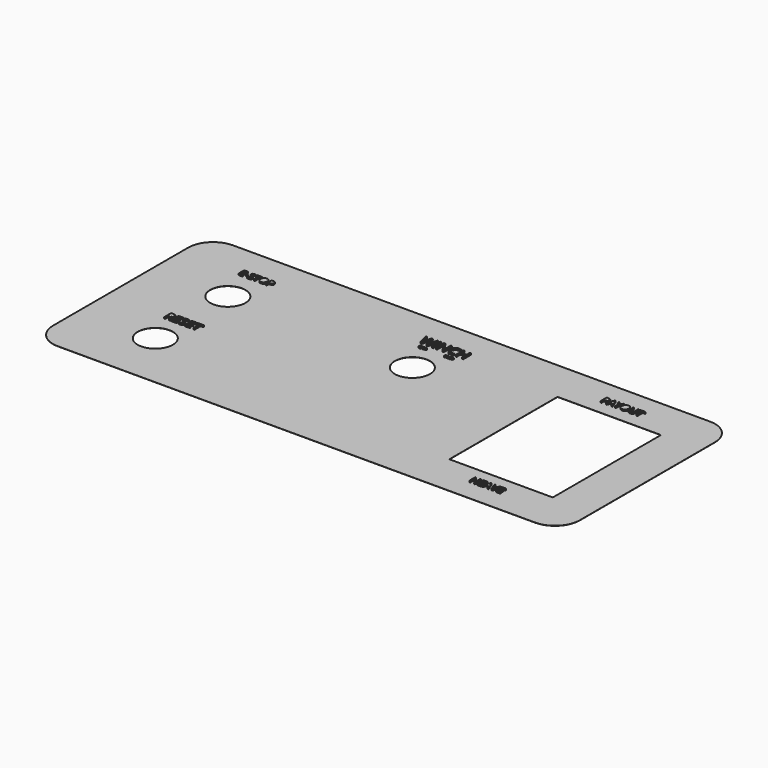
from build123d import *

# Parameters (mm, degrees)
F0_W     = 336.55
F0_H     = 139.7
F0_R     = 11.25
F0_W_2   = 66.04
F0_H_2   = 86.36
F1_DEPTH = 1
F2_R     = 15.88
F3_R     = 11.25
F3_W     = 1.5159601074
F3_H     = 0.4694139837
F3_W_2   = 0.7467557734
F3_H_2   = 6.4254748189
F3_W_3   = 66.04
F3_H_3   = 86.36
F4_DEPTH = 0.9


with BuildPart() as f1:
    # F0 (on Top) → F1 (new body)
    with BuildSketch(Plane.XY):
        Rectangle(F0_W, F0_H)
        with Locations((-119.885, -32.77)):
            Circle(F0_R, mode=Mode.SUBTRACT)
        with Locations((-119.885, 25.15)):
            Circle(F0_R, mode=Mode.SUBTRACT)
        with Locations((0, 22.65)):
            Circle(F0_R, mode=Mode.SUBTRACT)
        with Locations((109.345, 0)):
            Rectangle(F0_W_2, F0_H_2, mode=Mode.SUBTRACT)
    extrude(amount=F1_DEPTH)

    # F2
    f2_edges = [f1.edges().sort_by_distance(p)[0] for p in [
        (-168.275, 69.85, 0.5),
        (-168.275, -69.85, 0.5),
        (168.275, 69.85, 0.5),
        (168.275, -69.85, 0.5),
    ]]
    fillet(f2_edges, radius=F2_R)

    # F3 (on face) → F4 (cut)
    with BuildSketch(Plane.XY.offset(1)):
        with BuildLine():
            ThreePointArc((-168.275, -53.97), (-163.6238556852, -65.1988556852), (-152.395, -69.85))
            Line((-152.395, -69.85), (152.395, -69.85))
            ThreePointArc((152.395, -69.85), (163.6238556852, -65.1988556852), (168.275, -53.97))
            Line((168.275, -53.97), (168.275, 53.97))
            ThreePointArc((168.275, 53.97), (163.6238556852, 65.1988556852), (152.395, 69.85))
            Line((152.395, 69.85), (-152.395, 69.85))
            ThreePointArc((-152.395, 69.85), (-163.6238556852, 65.1988556852), (-168.275, 53.97))
            Line((-168.275, 53.97), (-168.275, -53.97))
        make_face()
        with Locations((-119.885, -32.77)):
            Circle(F3_R, mode=Mode.SUBTRACT)
        with BuildLine():
            Line((-127.8560593582, -11.1625907521), (-129.0059681687, -11.1625907521))
            Line((-129.0059681687, -11.1625907521), (-129.0059681687, -13.4527655318))
            Line((-129.0059681687, -13.4527655318), (-129.6460117519, -13.4527655318))
            Line((-129.6460117519, -13.4527655318), (-129.6460117519, -7.9454978641))
            Line((-129.6460117519, -7.9454978641), (-128.1357017524, -7.9454978641))
            add(Edge.make_bspline(
                [(-128.1357017524, -7.9454978641), (-127.1219980736, -7.9454978641), (-126.6380479819, -8.3336222215)],
                knots=[0, 0, 0, 1, 1, 1], degree=2))
            add(Edge.make_bspline(
                [(-126.6380479819, -8.3336222215), (-126.1540978903, -8.7217465789), (-126.1540978903, -9.5016113592)],
                knots=[0, 0, 0, 1, 1, 1], degree=2))
            add(Edge.make_bspline(
                [(-126.1540978903, -9.5016113592), (-126.1540978903, -10.5936631226), (-127.2618192706, -10.9781714145)],
                knots=[0, 0, 0, 1, 1, 1], degree=2))
            Line((-127.2618192706, -10.9781714145), (-125.7659735329, -13.4527655318))
            Line((-125.7659735329, -13.4527655318), (-126.5229365654, -13.4527655318))
            Line((-126.5229365654, -13.4527655318), (-127.8560593582, -11.1625907521))
        make_face(mode=Mode.SUBTRACT)
        Polygon((-121.8075872293, -12.8802218369), (-121.8075872293, -13.4527655318), (-124.8776267894, -13.4527655318), (-124.8776267894, -7.9454978641), (-121.8075872293, -7.9454978641), (-121.8075872293, -8.5144254936), (-124.2375832062, -8.5144254936), (-124.2375832062, -10.2887082703), (-121.9546405573, -10.2887082703), (-121.9546405573, -10.8540198344), (-124.2375832062, -10.8540198344), (-124.2375832062, -12.8802218369), align=None, mode=Mode.SUBTRACT)
        with BuildLine():
            add(Edge.make_bspline(
                [(-117.8058081405, -11.0685730506), (-117.4803622507, -11.4229474639), (-117.4803622507, -11.9870536728)],
                knots=[0, 0, 0, 1, 1, 1], degree=2))
            add(Edge.make_bspline(
                [(-117.4803622507, -11.9870536728), (-117.4803622507, -12.7138828266), (-118.0077051276, -13.1212928663)],
                knots=[0, 0, 0, 1, 1, 1], degree=2))
            add(Edge.make_bspline(
                [(-118.0077051276, -13.1212928663), (-118.5350480046, -13.5287029061), (-119.439064365, -13.5287029061)],
                knots=[0, 0, 0, 1, 1, 1], degree=2))
            add(Edge.make_bspline(
                [(-119.439064365, -13.5287029061), (-120.4178127446, -13.5287029061), (-120.9457582991, -13.2755783252)],
                knots=[0, 0, 0, 1, 1, 1], degree=2))
            Line((-120.9457582991, -13.2755783252), (-120.9457582991, -12.6584364898))
            add(Edge.make_bspline(
                [(-120.9457582991, -12.6584364898), (-120.6058481475, -12.8006683972), (-120.2068755938, -12.8838379023)],
                knots=[0, 0, 0, 1, 1, 1], degree=2))
            add(Edge.make_bspline(
                [(-120.2068755938, -12.8838379023), (-119.8079030401, -12.9670074075), (-119.4161626172, -12.9670074075)],
                knots=[0, 0, 0, 1, 1, 1], degree=2))
            add(Edge.make_bspline(
                [(-119.4161626172, -12.9670074075), (-118.776119034, -12.9670074075), (-118.4518784994, -12.7241283453)],
                knots=[0, 0, 0, 1, 1, 1], degree=2))
            add(Edge.make_bspline(
                [(-118.4518784994, -12.7241283453), (-118.1276379648, -12.4812492832), (-118.1276379648, -12.0473214301)],
                knots=[0, 0, 0, 1, 1, 1], degree=2))
            add(Edge.make_bspline(
                [(-118.1276379648, -12.0473214301), (-118.1276379648, -11.7616522602), (-118.2427493814, -11.5790409554)],
                knots=[0, 0, 0, 1, 1, 1], degree=2))
            add(Edge.make_bspline(
                [(-118.2427493814, -11.5790409554), (-118.3578607979, -11.3964296506), (-118.6272576733, -11.2415415142)],
                knots=[0, 0, 0, 1, 1, 1], degree=2))
            add(Edge.make_bspline(
                [(-118.6272576733, -11.2415415142), (-118.8966545487, -11.0866533778), (-119.4462964959, -10.8913858439)],
                knots=[0, 0, 0, 1, 1, 1], degree=2))
            add(Edge.make_bspline(
                [(-119.4462964959, -10.8913858439), (-120.2141077247, -10.6165648704), (-120.5437723575, -10.2398913868)],
                knots=[0, 0, 0, 1, 1, 1], degree=2))
            add(Edge.make_bspline(
                [(-120.5437723575, -10.2398913868), (-120.8734369902, -9.8632179033), (-120.8734369902, -9.2569242643)],
                knots=[0, 0, 0, 1, 1, 1], degree=2))
            add(Edge.make_bspline(
                [(-120.8734369902, -9.2569242643), (-120.8734369902, -8.6204967465), (-120.3955136743, -8.243823263)],
                knots=[0, 0, 0, 1, 1, 1], degree=2))
            add(Edge.make_bspline(
                [(-120.3955136743, -8.243823263), (-119.9175903585, -7.8671497795), (-119.1292880922, -7.8671497795)],
                knots=[0, 0, 0, 1, 1, 1], degree=2))
            add(Edge.make_bspline(
                [(-119.1292880922, -7.8671497795), (-118.3084412369, -7.8671497795), (-117.6189780927, -8.1684885663)],
                knots=[0, 0, 0, 1, 1, 1], degree=2))
            Line((-117.6189780927, -8.1684885663), (-117.8190670471, -8.7253626443))
            add(Edge.make_bspline(
                [(-117.8190670471, -8.7253626443), (-118.5012980604, -8.4396934744), (-119.1449577091, -8.4396934744)],
                knots=[0, 0, 0, 1, 1, 1], degree=2))
            add(Edge.make_bspline(
                [(-119.1449577091, -8.4396934744), (-119.6536175812, -8.4396934744), (-119.9398894287, -8.6578627561)],
                knots=[0, 0, 0, 1, 1, 1], degree=2))
            add(Edge.make_bspline(
                [(-119.9398894287, -8.6578627561), (-120.2261612762, -8.8760320377), (-120.2261612762, -9.2641563951)],
                knots=[0, 0, 0, 1, 1, 1], degree=2))
            add(Edge.make_bspline(
                [(-120.2261612762, -9.2641563951), (-120.2261612762, -9.549825565), (-120.1206927008, -9.7330395474)],
                knots=[0, 0, 0, 1, 1, 1], degree=2))
            add(Edge.make_bspline(
                [(-120.1206927008, -9.7330395474), (-120.0152241254, -9.9162535298), (-119.7645102548, -10.0687309559)],
                knots=[0, 0, 0, 1, 1, 1], degree=2))
            add(Edge.make_bspline(
                [(-119.7645102548, -10.0687309559), (-119.5137963841, -10.2212083821), (-118.9979043811, -10.4056277196)],
                knots=[0, 0, 0, 1, 1, 1], degree=2))
            add(Edge.make_bspline(
                [(-118.9979043811, -10.4056277196), (-118.1312540302, -10.7141986373), (-117.8058081405, -11.0685730506)],
                knots=[0, 0, 0, 1, 1, 1], degree=2))
        make_face(mode=Mode.SUBTRACT)
        Polygon((-113.283315628, -12.8802218369), (-113.283315628, -13.4527655318), (-116.353355188, -13.4527655318), (-116.353355188, -7.9454978641), (-113.283315628, -7.9454978641), (-113.283315628, -8.5144254936), (-115.7133116048, -8.5144254936), (-115.7133116048, -10.2887082703), (-113.430368956, -10.2887082703), (-113.430368956, -10.8540198344), (-115.7133116048, -10.8540198344), (-115.7133116048, -12.8802218369), align=None, mode=Mode.SUBTRACT)
        Polygon((-110.3687668819, -8.5144254936), (-110.3687668819, -13.4527655318), (-111.0088104651, -13.4527655318), (-111.0088104651, -8.5144254936), (-112.7529593632, -8.5144254936), (-112.7529593632, -7.9454978641), (-108.6246179839, -7.9454978641), (-108.6246179839, -8.5144254936), align=None, mode=Mode.SUBTRACT)
        Polygon((103.2615733004, -51.5825878295), (103.2615733004, -56.4014464617), (102.7015352322, -56.4014464617), (102.7015352322, -54.1338723625), (100.1629069268, -54.1338723625), (100.1629069268, -56.4014464617), (99.6028688586, -56.4014464617), (99.6028688586, -51.5825878295), (100.1629069268, -51.5825878295), (100.1629069268, -53.6328966894), (102.7015352322, -53.6328966894), (102.7015352322, -51.5825878295), align=None, mode=Mode.SUBTRACT)
        Polygon((107.269378685, -55.9004707886), (107.269378685, -56.4014464617), (104.5830943917, -56.4014464617), (104.5830943917, -51.5825878295), (107.269378685, -51.5825878295), (107.269378685, -52.0803994457), (105.1431324599, -52.0803994457), (105.1431324599, -53.6328966894), (107.1407070385, -53.6328966894), (107.1407070385, -54.1275442487), (105.1431324599, -54.1275442487), (105.1431324599, -55.9004707886), align=None, mode=Mode.SUBTRACT)
        Polygon((111.9458547575, -56.4014464617), (111.3657776623, -56.4014464617), (110.7656615403, -54.8689882449), (108.8345321563, -54.8689882449), (108.2417988336, -56.4014464617), (107.674377966, -56.4014464617), (109.5791402093, -51.5625488026), (110.0505846848, -51.5625488026), align=None, mode=Mode.SUBTRACT)
        with BuildLine():
            Line((114.2598350243, -54.6812542032), (115.3609268194, -51.5825878295))
            Line((115.3609268194, -51.5825878295), (115.9631523127, -51.5825878295))
            Line((115.9631523127, -51.5825878295), (114.2271397698, -56.4014464617))
            Line((114.2271397698, -56.4014464617), (113.6734298154, -56.4014464617))
            Line((113.6734298154, -56.4014464617), (111.9458547575, -51.5825878295))
            Line((111.9458547575, -51.5825878295), (112.5396427658, -51.5825878295))
            Line((112.5396427658, -51.5825878295), (113.6470626747, -54.7002385445))
            add(Edge.make_bspline(
                [(113.6470626747, -54.7002385445), (113.8379607733, -55.2381282145), (113.9497574498, -55.7454320014)],
                knots=[0, 0, 0, 1, 1, 1], degree=2))
            add(Edge.make_bspline(
                [(113.9497574498, -55.7454320014), (114.0689369257, -55.2117610738), (114.2598350243, -54.6812542032)],
                knots=[0, 0, 0, 1, 1, 1], degree=2))
        make_face(mode=Mode.SUBTRACT)
        Polygon((119.3117791801, -55.9004707886), (119.3117791801, -56.4014464617), (116.6254948868, -56.4014464617), (116.6254948868, -51.5825878295), (119.3117791801, -51.5825878295), (119.3117791801, -52.0803994457), (117.185532955, -52.0803994457), (117.185532955, -53.6328966894), (119.1831075335, -53.6328966894), (119.1831075335, -54.1275442487), (117.185532955, -54.1275442487), (117.185532955, -55.9004707886), align=None, mode=Mode.SUBTRACT)
        with Locations((-119.885, 25.15)):
            Circle(F3_R, mode=Mode.SUBTRACT)
        Polygon((-127.5761585663, 46.8936240553), (-127.5761585663, 46.4242100716), (-130.093205759, 46.4242100716), (-130.093205759, 50.9394784749), (-127.5761585663, 50.9394784749), (-127.5761585663, 50.4730292111), (-129.5684503372, 50.4730292111), (-129.5684503372, 49.0183399816), (-127.6967238421, 49.0183399816), (-127.6967238421, 48.5548554376), (-129.5684503372, 48.5548554376), (-129.5684503372, 46.8936240553), align=None, mode=Mode.SUBTRACT)
        with Locations((-126.1787872548, 48.1195357327)):
            Rectangle(F3_W, F3_H, mode=Mode.SUBTRACT)
        with BuildLine():
            add(Edge.make_bspline(
                [(-122.2604157908, 48.3789487237), (-121.993591, 48.0884061738), (-121.993591, 47.6259098699)],
                knots=[0, 0, 0, 1, 1, 1], degree=2))
            add(Edge.make_bspline(
                [(-121.993591, 47.6259098699), (-121.993591, 47.0300011705), (-122.425945985, 46.6959760621)],
                knots=[0, 0, 0, 1, 1, 1], degree=2))
            add(Edge.make_bspline(
                [(-122.425945985, 46.6959760621), (-122.85830097, 46.3619509537), (-123.5994809443, 46.3619509537)],
                knots=[0, 0, 0, 1, 1, 1], degree=2))
            add(Edge.make_bspline(
                [(-123.5994809443, 46.3619509537), (-124.4019317965, 46.3619509537), (-124.8347809014, 46.5694813465)],
                knots=[0, 0, 0, 1, 1, 1], degree=2))
            Line((-124.8347809014, 46.5694813465), (-124.8347809014, 47.075460209))
            add(Edge.make_bspline(
                [(-124.8347809014, 47.075460209), (-124.5560972311, 46.958847893), (-124.2289898025, 46.8906593354)],
                knots=[0, 0, 0, 1, 1, 1], degree=2))
            add(Edge.make_bspline(
                [(-124.2289898025, 46.8906593354), (-123.9018823738, 46.8224707777), (-123.5807043849, 46.8224707777)],
                knots=[0, 0, 0, 1, 1, 1], degree=2))
            add(Edge.make_bspline(
                [(-123.5807043849, 46.8224707777), (-123.0559489632, 46.8224707777), (-122.7901124124, 47.0216011308)],
                knots=[0, 0, 0, 1, 1, 1], degree=2))
            add(Edge.make_bspline(
                [(-122.7901124124, 47.0216011308), (-122.5242758616, 47.2207314839), (-122.5242758616, 47.5764978716)],
                knots=[0, 0, 0, 1, 1, 1], degree=2))
            add(Edge.make_bspline(
                [(-122.5242758616, 47.5764978716), (-122.5242758616, 47.8107107435), (-122.6186527783, 47.9604290983)],
                knots=[0, 0, 0, 1, 1, 1], degree=2))
            add(Edge.make_bspline(
                [(-122.6186527783, 47.9604290983), (-122.7130296951, 48.1101474531), (-122.9339013274, 48.2371362887)],
                knots=[0, 0, 0, 1, 1, 1], degree=2))
            add(Edge.make_bspline(
                [(-122.9339013274, 48.2371362887), (-123.1547729597, 48.3641251243), (-123.6054103841, 48.5242199987)],
                knots=[0, 0, 0, 1, 1, 1], degree=2))
            add(Edge.make_bspline(
                [(-123.6054103841, 48.5242199987), (-124.2349192423, 48.7495387109), (-124.5052028729, 49.0583637002)],
                knots=[0, 0, 0, 1, 1, 1], degree=2))
            add(Edge.make_bspline(
                [(-124.5052028729, 49.0583637002), (-124.7754865035, 49.3671886895), (-124.7754865035, 49.8642733922)],
                knots=[0, 0, 0, 1, 1, 1], degree=2))
            add(Edge.make_bspline(
                [(-124.7754865035, 49.8642733922), (-124.7754865035, 50.3860640941), (-124.3836493571, 50.6948890834)],
                knots=[0, 0, 0, 1, 1, 1], degree=2))
            add(Edge.make_bspline(
                [(-124.3836493571, 50.6948890834), (-123.9918122107, 51.0037140727), (-123.3455032731, 51.0037140727)],
                knots=[0, 0, 0, 1, 1, 1], degree=2))
            add(Edge.make_bspline(
                [(-123.3455032731, 51.0037140727), (-122.6725118565, 51.0037140727), (-122.1072385961, 50.7566540812)],
                knots=[0, 0, 0, 1, 1, 1], degree=2))
            Line((-122.1072385961, 50.7566540812), (-122.2712864304, 50.3000872171))
            add(Edge.make_bspline(
                [(-122.2712864304, 50.3000872171), (-122.830630251, 50.534300089), (-123.3583503927, 50.534300089)],
                knots=[0, 0, 0, 1, 1, 1], degree=2))
            add(Edge.make_bspline(
                [(-123.3583503927, 50.534300089), (-123.7753876582, 50.534300089), (-124.0100946501, 50.3554286552)],
                knots=[0, 0, 0, 1, 1, 1], degree=2))
            add(Edge.make_bspline(
                [(-124.0100946501, 50.3554286552), (-124.2448016419, 50.1765572214), (-124.2448016419, 49.8583439524)],
                knots=[0, 0, 0, 1, 1, 1], degree=2))
            add(Edge.make_bspline(
                [(-124.2448016419, 49.8583439524), (-124.2448016419, 49.6241310805), (-124.1583306449, 49.4739186058)],
                knots=[0, 0, 0, 1, 1, 1], degree=2))
            add(Edge.make_bspline(
                [(-124.1583306449, 49.4739186058), (-124.0718596479, 49.323706131), (-123.866305735, 49.1986937753)],
                knots=[0, 0, 0, 1, 1, 1], degree=2))
            add(Edge.make_bspline(
                [(-123.866305735, 49.1986937753), (-123.6607518222, 49.0736814196), (-123.2377851168, 48.9224807049)],
                knots=[0, 0, 0, 1, 1, 1], degree=2))
            add(Edge.make_bspline(
                [(-123.2377851168, 48.9224807049), (-122.5272405815, 48.6694912737), (-122.2604157908, 48.3789487237)],
                knots=[0, 0, 0, 1, 1, 1], degree=2))
        make_face(mode=Mode.SUBTRACT)
        Polygon((-119.6801212403, 50.4730292111), (-119.6801212403, 46.4242100716), (-120.2048766621, 46.4242100716), (-120.2048766621, 50.4730292111), (-121.6348598925, 50.4730292111), (-121.6348598925, 50.9394784749), (-118.2501380099, 50.9394784749), (-118.2501380099, 50.4730292111), align=None, mode=Mode.SUBTRACT)
        with BuildLine():
            add(Edge.make_bspline(
                [(-114.1973659105, 50.3929817739), (-113.6508692095, 49.7753317953), (-113.6508692095, 48.688267833)],
                knots=[0, 0, 0, 1, 1, 1], degree=2))
            add(Edge.make_bspline(
                [(-113.6508692095, 48.688267833), (-113.6508692095, 47.6041685906), (-114.1993423904, 46.9830597722)],
                knots=[0, 0, 0, 1, 1, 1], degree=2))
            add(Edge.make_bspline(
                [(-114.1993423904, 46.9830597722), (-114.7478155714, 46.3619509537), (-115.7232084176, 46.3619509537)],
                knots=[0, 0, 0, 1, 1, 1], degree=2))
            add(Edge.make_bspline(
                [(-115.7232084176, 46.3619509537), (-116.720342543, 46.3619509537), (-117.2623921642, 46.9721891326)],
                knots=[0, 0, 0, 1, 1, 1], degree=2))
            add(Edge.make_bspline(
                [(-117.2623921642, 46.9721891326), (-117.8044417854, 47.5824273114), (-117.8044417854, 48.6941972728)],
                knots=[0, 0, 0, 1, 1, 1], degree=2))
            add(Edge.make_bspline(
                [(-117.8044417854, 48.6941972728), (-117.8044417854, 49.7970730745), (-117.2609098042, 50.4038524135)],
                knots=[0, 0, 0, 1, 1, 1], degree=2))
            add(Edge.make_bspline(
                [(-117.2609098042, 50.4038524135), (-116.7173778231, 51.0106317524), (-115.7172789778, 51.0106317524)],
                knots=[0, 0, 0, 1, 1, 1], degree=2))
            add(Edge.make_bspline(
                [(-115.7172789778, 51.0106317524), (-114.7438626116, 51.0106317524), (-114.1973659105, 50.3929817739)],
                knots=[0, 0, 0, 1, 1, 1], degree=2))
        make_face(mode=Mode.SUBTRACT)
        with BuildLine():
            add(Edge.make_bspline(
                [(-111.473776565, 50.9394784749), (-109.7819097437, 50.9394784749), (-109.7819097437, 49.6241310805)],
                knots=[0, 0, 0, 1, 1, 1], degree=2))
            add(Edge.make_bspline(
                [(-109.7819097437, 49.6241310805), (-109.7819097437, 48.9382925443), (-110.2498413675, 48.5691849171)],
                knots=[0, 0, 0, 1, 1, 1], degree=2))
            add(Edge.make_bspline(
                [(-110.2498413675, 48.5691849171), (-110.7177729912, 48.2000772899), (-111.588412401, 48.2000772899)],
                knots=[0, 0, 0, 1, 1, 1], degree=2))
            Line((-111.588412401, 48.2000772899), (-112.1200855026, 48.2000772899))
            Line((-112.1200855026, 48.2000772899), (-112.1200855026, 46.4242100716))
            Line((-112.1200855026, 46.4242100716), (-112.6448409244, 46.4242100716))
            Line((-112.6448409244, 46.4242100716), (-112.6448409244, 50.9394784749))
            Line((-112.6448409244, 50.9394784749), (-111.473776565, 50.9394784749))
        make_face(mode=Mode.SUBTRACT)
        with BuildLine():
            add(Edge.make_bspline(
                [(-10.0419586414, 41.6588934467), (-9.96129314, 41.5710576785), (-9.96129314, 41.4312374761)],
                knots=[0, 0, 0, 1, 1, 1], degree=2))
            add(Edge.make_bspline(
                [(-9.96129314, 41.4312374761), (-9.96129314, 41.251084523), (-10.0920011284, 41.1501032656)],
                knots=[0, 0, 0, 1, 1, 1], degree=2))
            add(Edge.make_bspline(
                [(-10.0920011284, 41.1501032656), (-10.2227091168, 41.0491220083), (-10.446779954, 41.0491220083)],
                knots=[0, 0, 0, 1, 1, 1], degree=2))
            add(Edge.make_bspline(
                [(-10.446779954, 41.0491220083), (-10.6893739805, 41.0491220083), (-10.8202313494, 41.1118618428)],
                knots=[0, 0, 0, 1, 1, 1], degree=2))
            Line((-10.8202313494, 41.1118618428), (-10.8202313494, 41.2648275343))
            add(Edge.make_bspline(
                [(-10.8202313494, 41.2648275343), (-10.7359807146, 41.2295737226), (-10.6370907851, 41.2089592056)],
                knots=[0, 0, 0, 1, 1, 1], degree=2))
            add(Edge.make_bspline(
                [(-10.6370907851, 41.2089592056), (-10.5382008556, 41.1883446885), (-10.4411034928, 41.1883446885)],
                knots=[0, 0, 0, 1, 1, 1], degree=2))
            add(Edge.make_bspline(
                [(-10.4411034928, 41.1883446885), (-10.2824613401, 41.1883446885), (-10.2020945998, 41.2485450535)],
                knots=[0, 0, 0, 1, 1, 1], degree=2))
            add(Edge.make_bspline(
                [(-10.2020945998, 41.2485450535), (-10.1217278595, 41.3087454184), (-10.1217278595, 41.4162994203)],
                knots=[0, 0, 0, 1, 1, 1], degree=2))
            add(Edge.make_bspline(
                [(-10.1217278595, 41.4162994203), (-10.1217278595, 41.4871058048), (-10.1502595461, 41.532368114)],
                knots=[0, 0, 0, 1, 1, 1], degree=2))
            add(Edge.make_bspline(
                [(-10.1502595461, 41.532368114), (-10.1787912327, 41.5776304231), (-10.2455643422, 41.6160212265)],
                knots=[0, 0, 0, 1, 1, 1], degree=2))
            add(Edge.make_bspline(
                [(-10.2455643422, 41.6160212265), (-10.3123374517, 41.65441203), (-10.4485725207, 41.7028113308)],
                knots=[0, 0, 0, 1, 1, 1], degree=2))
            add(Edge.make_bspline(
                [(-10.4485725207, 41.7028113308), (-10.6388833518, 41.7709288653), (-10.7205945171, 41.8642917142)],
                knots=[0, 0, 0, 1, 1, 1], degree=2))
            add(Edge.make_bspline(
                [(-10.7205945171, 41.8642917142), (-10.8023056824, 41.957654563), (-10.8023056824, 42.1079314045)],
                knots=[0, 0, 0, 1, 1, 1], degree=2))
            add(Edge.make_bspline(
                [(-10.8023056824, 42.1079314045), (-10.8023056824, 42.2656772739), (-10.6838468998, 42.3590401228)],
                knots=[0, 0, 0, 1, 1, 1], degree=2))
            add(Edge.make_bspline(
                [(-10.6838468998, 42.3590401228), (-10.5653881172, 42.4524029716), (-10.3699983471, 42.4524029716)],
                knots=[0, 0, 0, 1, 1, 1], degree=2))
            add(Edge.make_bspline(
                [(-10.3699983471, 42.4524029716), (-10.1665420269, 42.4524029716), (-9.9956506684, 42.3777126926)],
                knots=[0, 0, 0, 1, 1, 1], degree=2))
            Line((-9.9956506684, 42.3777126926), (-10.0452450137, 42.2396850568))
            add(Edge.make_bspline(
                [(-10.0452450137, 42.2396850568), (-10.2143438055, 42.3104914414), (-10.3738822417, 42.3104914414)],
                knots=[0, 0, 0, 1, 1, 1], degree=2))
            add(Edge.make_bspline(
                [(-10.3738822417, 42.3104914414), (-10.4999594327, 42.3104914414), (-10.5709151979, 42.2564156793)],
                knots=[0, 0, 0, 1, 1, 1], degree=2))
            add(Edge.make_bspline(
                [(-10.5709151979, 42.2564156793), (-10.641870963, 42.2023399173), (-10.641870963, 42.1061388378)],
                knots=[0, 0, 0, 1, 1, 1], degree=2))
            add(Edge.make_bspline(
                [(-10.641870963, 42.1061388378), (-10.641870963, 42.0353324533), (-10.6157293653, 41.9899207636)],
                knots=[0, 0, 0, 1, 1, 1], degree=2))
            add(Edge.make_bspline(
                [(-10.6157293653, 41.9899207636), (-10.5895877676, 41.9445090739), (-10.5274454554, 41.9067157927)],
                knots=[0, 0, 0, 1, 1, 1], degree=2))
            add(Edge.make_bspline(
                [(-10.5274454554, 41.9067157927), (-10.4653031432, 41.8689225115), (-10.3374333855, 41.8232120607)],
                knots=[0, 0, 0, 1, 1, 1], degree=2))
            add(Edge.make_bspline(
                [(-10.3374333855, 41.8232120607), (-10.1226241428, 41.7467292149), (-10.0419586414, 41.6588934467)],
                knots=[0, 0, 0, 1, 1, 1], degree=2))
        make_face(mode=Mode.SUBTRACT)
        Polygon((-9.2618933668, 42.2919682522), (-9.2618933668, 41.0679439587), (-9.4205355195, 41.0679439587), (-9.4205355195, 42.2919682522), (-9.8528428548, 42.2919682522), (-9.8528428548, 42.4329834991), (-8.8295860314, 42.4329834991), (-8.8295860314, 42.2919682522), align=None, mode=Mode.SUBTRACT)
        with BuildLine():
            add(Edge.make_bspline(
                [(-7.6043666935, 42.2677686018), (-7.4391517961, 42.0810429041), (-7.4391517961, 41.7524056761)],
                knots=[0, 0, 0, 1, 1, 1], degree=2))
            add(Edge.make_bspline(
                [(-7.4391517961, 41.7524056761), (-7.4391517961, 41.4246647315), (-7.6049642157, 41.2368933699)],
                knots=[0, 0, 0, 1, 1, 1], degree=2))
            add(Edge.make_bspline(
                [(-7.6049642157, 41.2368933699), (-7.7707766352, 41.0491220083), (-8.065653857, 41.0491220083)],
                knots=[0, 0, 0, 1, 1, 1], degree=2))
            add(Edge.make_bspline(
                [(-8.065653857, 41.0491220083), (-8.3671038234, 41.0491220083), (-8.5309742957, 41.2336069977)],
                knots=[0, 0, 0, 1, 1, 1], degree=2))
            add(Edge.make_bspline(
                [(-8.5309742957, 41.2336069977), (-8.694844768, 41.418091987), (-8.694844768, 41.7541982428)],
                knots=[0, 0, 0, 1, 1, 1], degree=2))
            add(Edge.make_bspline(
                [(-8.694844768, 41.7541982428), (-8.694844768, 42.0876156486), (-8.530526154, 42.271054974)],
                knots=[0, 0, 0, 1, 1, 1], degree=2))
            add(Edge.make_bspline(
                [(-8.530526154, 42.271054974), (-8.3662075401, 42.4544942995), (-8.0638612903, 42.4544942995)],
                knots=[0, 0, 0, 1, 1, 1], degree=2))
            add(Edge.make_bspline(
                [(-8.0638612903, 42.4544942995), (-7.7695815908, 42.4544942995), (-7.6043666935, 42.2677686018)],
                knots=[0, 0, 0, 1, 1, 1], degree=2))
        make_face(mode=Mode.SUBTRACT)
        with BuildLine():
            add(Edge.make_bspline(
                [(-6.7809810569, 42.4329834991), (-6.2695020258, 42.4329834991), (-6.2695020258, 42.0353324533)],
                knots=[0, 0, 0, 1, 1, 1], degree=2))
            add(Edge.make_bspline(
                [(-6.2695020258, 42.0353324533), (-6.2695020258, 41.8279922386), (-6.4109654144, 41.7164049616)],
                knots=[0, 0, 0, 1, 1, 1], degree=2))
            add(Edge.make_bspline(
                [(-6.4109654144, 41.7164049616), (-6.5524288029, 41.6048176847), (-6.8156373464, 41.6048176847)],
                knots=[0, 0, 0, 1, 1, 1], degree=2))
            Line((-6.8156373464, 41.6048176847), (-6.976370827, 41.6048176847))
            Line((-6.976370827, 41.6048176847), (-6.976370827, 41.0679439587))
            Line((-6.976370827, 41.0679439587), (-7.1350129797, 41.0679439587))
            Line((-7.1350129797, 41.0679439587), (-7.1350129797, 42.4329834991))
            Line((-7.1350129797, 42.4329834991), (-6.7809810569, 42.4329834991))
        make_face(mode=Mode.SUBTRACT)
        with BuildLine():
            Line((-6.6153279816, 51.8157117088), (-8.3338506843, 45.3902368899))
            Line((-8.3338506843, 45.3902368899), (-9.0721685394, 45.3902368899))
            Line((-9.0721685394, 45.3902368899), (-10.3687953249, 49.6921689256))
            add(Edge.make_bspline(
                [(-10.3687953249, 49.6921689256), (-10.4616124267, 49.9790581493), (-10.5755243243, 50.413610944)],
                knots=[0, 0, 0, 1, 1, 1], degree=2))
            add(Edge.make_bspline(
                [(-10.5755243243, 50.413610944), (-10.689436222, 50.8481637387), (-10.6936551812, 50.9367618813)],
                knots=[0, 0, 0, 1, 1, 1], degree=2))
            add(Edge.make_bspline(
                [(-10.6936551812, 50.9367618813), (-10.7906912421, 50.3559518353), (-11.0016392007, 49.6668551706)],
                knots=[0, 0, 0, 1, 1, 1], degree=2))
            Line((-11.0016392007, 49.6668551706), (-12.258889034, 45.3902368899))
            Line((-12.258889034, 45.3902368899), (-12.997206889, 45.3902368899))
            Line((-12.997206889, 45.3902368899), (-14.7072916734, 51.8157117088))
            Line((-14.7072916734, 51.8157117088), (-13.9155336688, 51.8157117088))
            Line((-13.9155336688, 51.8157117088), (-12.9001708281, 47.8470774477))
            add(Edge.make_bspline(
                [(-12.9001708281, 47.8470774477), (-12.6892228695, 47.0117235317), (-12.5921868085, 46.3352837445)],
                knots=[0, 0, 0, 1, 1, 1], degree=2))
            add(Edge.make_bspline(
                [(-12.5921868085, 46.3352837445), (-12.4740559517, 47.1396986266), (-12.2406068775, 47.9089555156)],
                knots=[0, 0, 0, 1, 1, 1], degree=2))
            Line((-12.2406068775, 47.9089555156), (-11.0902373433, 51.8157117088))
            Line((-11.0902373433, 51.8157117088), (-10.2984793387, 51.8157117088))
            Line((-10.2984793387, 51.8157117088), (-9.0904506958, 47.8737975225))
            add(Edge.make_bspline(
                [(-9.0904506958, 47.8737975225), (-8.8795027372, 47.1917324564), (-8.7346518057, 46.3352837445)],
                knots=[0, 0, 0, 1, 1, 1], degree=2))
            add(Edge.make_bspline(
                [(-8.7346518057, 46.3352837445), (-8.6502726222, 46.9596897019), (-8.4182298678, 47.8555153661)],
                knots=[0, 0, 0, 1, 1, 1], degree=2))
            Line((-8.4182298678, 47.8555153661), (-7.4070859862, 51.8157117088))
            Line((-7.4070859862, 51.8157117088), (-6.6153279816, 51.8157117088))
        make_face(mode=Mode.SUBTRACT)
        with Locations((-5.2364314922, 48.6029742994)):
            Rectangle(F3_W_2, F3_H_2, mode=Mode.SUBTRACT)
        with BuildLine():
            Line((1.9182201035, 51.8157117088), (1.9182201035, 45.3902368899))
            Line((1.9182201035, 45.3902368899), (1.0659903508, 45.3902368899))
            Line((1.0659903508, 45.3902368899), (-2.44559, 50.7820667117))
            Line((-2.44559, 50.7820667117), (-2.4807479931, 50.7820667117))
            add(Edge.make_bspline(
                [(-2.4807479931, 50.7820667117), (-2.4104320069, 49.832800898), (-2.4104320069, 49.0424492131)],
                knots=[0, 0, 0, 1, 1, 1], degree=2))
            Line((-2.4104320069, 49.0424492131), (-2.4104320069, 45.3902368899))
            Line((-2.4104320069, 45.3902368899), (-3.1009349914, 45.3902368899))
            Line((-3.1009349914, 45.3902368899), (-3.1009349914, 51.8157117088))
            Line((-3.1009349914, 51.8157117088), (-2.257143157, 51.8157117088))
            Line((-2.257143157, 51.8157117088), (1.2459992754, 46.4449766829))
            Line((1.2459992754, 46.4449766829), (1.2811572685, 46.4449766829))
            add(Edge.make_bspline(
                [(1.2811572685, 46.4449766829), (1.2727193502, 46.5631075397), (1.2417803163, 47.2072019733)],
                knots=[0, 0, 0, 1, 1, 1], degree=2))
            add(Edge.make_bspline(
                [(1.2417803163, 47.2072019733), (1.2108412823, 47.8512964069), (1.2192792007, 48.1283413925)],
                knots=[0, 0, 0, 1, 1, 1], degree=2))
            Line((1.2192792007, 48.1283413925), (1.2192792007, 51.8157117088))
            Line((1.2192792007, 51.8157117088), (1.9182201035, 51.8157117088))
        make_face(mode=Mode.SUBTRACT)
        with Locations((0, 22.65)):
            Circle(F3_R, mode=Mode.SUBTRACT)
        with Locations((109.345, 0)):
            Rectangle(F3_W_3, F3_H_3, mode=Mode.SUBTRACT)
        with BuildLine():
            add(Edge.make_bspline(
                [(6.1329681956, 41.6588934467), (6.213633697, 41.5710576785), (6.213633697, 41.4312374761)],
                knots=[0, 0, 0, 1, 1, 1], degree=2))
            add(Edge.make_bspline(
                [(6.213633697, 41.4312374761), (6.213633697, 41.251084523), (6.0829257086, 41.1501032656)],
                knots=[0, 0, 0, 1, 1, 1], degree=2))
            add(Edge.make_bspline(
                [(6.0829257086, 41.1501032656), (5.9522177203, 41.0491220083), (5.728146883, 41.0491220083)],
                knots=[0, 0, 0, 1, 1, 1], degree=2))
            add(Edge.make_bspline(
                [(5.728146883, 41.0491220083), (5.4855528566, 41.0491220083), (5.3546954876, 41.1118618428)],
                knots=[0, 0, 0, 1, 1, 1], degree=2))
            Line((5.3546954876, 41.1118618428), (5.3546954876, 41.2648275343))
            add(Edge.make_bspline(
                [(5.3546954876, 41.2648275343), (5.4389461224, 41.2295737226), (5.5378360519, 41.2089592056)],
                knots=[0, 0, 0, 1, 1, 1], degree=2))
            add(Edge.make_bspline(
                [(5.5378360519, 41.2089592056), (5.6367259814, 41.1883446885), (5.7338233442, 41.1883446885)],
                knots=[0, 0, 0, 1, 1, 1], degree=2))
            add(Edge.make_bspline(
                [(5.7338233442, 41.1883446885), (5.892465497, 41.1883446885), (5.9728322373, 41.2485450535)],
                knots=[0, 0, 0, 1, 1, 1], degree=2))
            add(Edge.make_bspline(
                [(5.9728322373, 41.2485450535), (6.0531989776, 41.3087454184), (6.0531989776, 41.4162994203)],
                knots=[0, 0, 0, 1, 1, 1], degree=2))
            add(Edge.make_bspline(
                [(6.0531989776, 41.4162994203), (6.0531989776, 41.4871058048), (6.024667291, 41.532368114)],
                knots=[0, 0, 0, 1, 1, 1], degree=2))
            add(Edge.make_bspline(
                [(6.024667291, 41.532368114), (5.9961356044, 41.5776304231), (5.9293624949, 41.6160212265)],
                knots=[0, 0, 0, 1, 1, 1], degree=2))
            add(Edge.make_bspline(
                [(5.9293624949, 41.6160212265), (5.8625893854, 41.65441203), (5.7263543163, 41.7028113308)],
                knots=[0, 0, 0, 1, 1, 1], degree=2))
            add(Edge.make_bspline(
                [(5.7263543163, 41.7028113308), (5.5360434852, 41.7709288653), (5.4543323199, 41.8642917142)],
                knots=[0, 0, 0, 1, 1, 1], degree=2))
            add(Edge.make_bspline(
                [(5.4543323199, 41.8642917142), (5.3726211546, 41.957654563), (5.3726211546, 42.1079314045)],
                knots=[0, 0, 0, 1, 1, 1], degree=2))
            add(Edge.make_bspline(
                [(5.3726211546, 42.1079314045), (5.3726211546, 42.2656772739), (5.4910799372, 42.3590401228)],
                knots=[0, 0, 0, 1, 1, 1], degree=2))
            add(Edge.make_bspline(
                [(5.4910799372, 42.3590401228), (5.6095387199, 42.4524029716), (5.8049284899, 42.4524029716)],
                knots=[0, 0, 0, 1, 1, 1], degree=2))
            add(Edge.make_bspline(
                [(5.8049284899, 42.4524029716), (6.0083848101, 42.4524029716), (6.1792761687, 42.3777126926)],
                knots=[0, 0, 0, 1, 1, 1], degree=2))
            Line((6.1792761687, 42.3777126926), (6.1296818233, 42.2396850568))
            add(Edge.make_bspline(
                [(6.1296818233, 42.2396850568), (5.9605830315, 42.3104914414), (5.8010445954, 42.3104914414)],
                knots=[0, 0, 0, 1, 1, 1], degree=2))
            add(Edge.make_bspline(
                [(5.8010445954, 42.3104914414), (5.6749674043, 42.3104914414), (5.6040116392, 42.2564156793)],
                knots=[0, 0, 0, 1, 1, 1], degree=2))
            add(Edge.make_bspline(
                [(5.6040116392, 42.2564156793), (5.5330558741, 42.2023399173), (5.5330558741, 42.1061388378)],
                knots=[0, 0, 0, 1, 1, 1], degree=2))
            add(Edge.make_bspline(
                [(5.5330558741, 42.1061388378), (5.5330558741, 42.0353324533), (5.5591974718, 41.9899207636)],
                knots=[0, 0, 0, 1, 1, 1], degree=2))
            add(Edge.make_bspline(
                [(5.5591974718, 41.9899207636), (5.5853390694, 41.9445090739), (5.6474813816, 41.9067157927)],
                knots=[0, 0, 0, 1, 1, 1], degree=2))
            add(Edge.make_bspline(
                [(5.6474813816, 41.9067157927), (5.7096236938, 41.8689225115), (5.8374934516, 41.8232120607)],
                knots=[0, 0, 0, 1, 1, 1], degree=2))
            add(Edge.make_bspline(
                [(5.8374934516, 41.8232120607), (6.0523026942, 41.7467292149), (6.1329681956, 41.6588934467)],
                knots=[0, 0, 0, 1, 1, 1], degree=2))
        make_face(mode=Mode.SUBTRACT)
        Polygon((6.9130334703, 42.2919682522), (6.9130334703, 41.0679439587), (6.7543913176, 41.0679439587), (6.7543913176, 42.2919682522), (6.3220839823, 42.2919682522), (6.3220839823, 42.4329834991), (7.3453408056, 42.4329834991), (7.3453408056, 42.2919682522), align=None, mode=Mode.SUBTRACT)
        Polygon((8.5732489937, 41.0679439587), (8.4089303797, 41.0679439587), (8.2389353045, 41.5020438607), (7.6919037005, 41.5020438607), (7.5239999532, 41.0679439587), (7.3632664726, 41.0679439587), (7.9028290487, 42.4386599603), (8.0363752676, 42.4386599603), align=None, mode=Mode.SUBTRACT)
        with BuildLine():
            Line((9.2045312324, 41.6355900796), (8.9195131275, 41.6355900796))
            Line((8.9195131275, 41.6355900796), (8.9195131275, 41.0679439587))
            Line((8.9195131275, 41.0679439587), (8.7608709747, 41.0679439587))
            Line((8.7608709747, 41.0679439587), (8.7608709747, 42.4329834991))
            Line((8.7608709747, 42.4329834991), (9.1352186534, 42.4329834991))
            add(Edge.make_bspline(
                [(9.1352186534, 42.4329834991), (9.3864767523, 42.4329834991), (9.5064293405, 42.3367824196)],
                knots=[0, 0, 0, 1, 1, 1], degree=2))
            add(Edge.make_bspline(
                [(9.5064293405, 42.3367824196), (9.6263819286, 42.2405813402), (9.6263819286, 42.0472828979)],
                knots=[0, 0, 0, 1, 1, 1], degree=2))
            add(Edge.make_bspline(
                [(9.6263819286, 42.0472828979), (9.6263819286, 41.7766053265), (9.3518204628, 41.6813005304)],
                knots=[0, 0, 0, 1, 1, 1], degree=2))
            Line((9.3518204628, 41.6813005304), (9.7225830081, 41.0679439587))
            Line((9.7225830081, 41.0679439587), (9.5349610271, 41.0679439587))
            Line((9.5349610271, 41.0679439587), (9.2045312324, 41.6355900796))
        make_face(mode=Mode.SUBTRACT)
        Polygon((10.3628280804, 42.2919682522), (10.3628280804, 41.0679439587), (10.2041859276, 41.0679439587), (10.2041859276, 42.2919682522), (9.7718785923, 42.2919682522), (9.7718785923, 42.4329834991), (10.7951354157, 42.4329834991), (10.7951354157, 42.2919682522), align=None, mode=Mode.SUBTRACT)
        with BuildLine():
            add(Edge.make_bspline(
                [(7.8950789304, 50.8973849291), (7.1651989937, 51.239120622), (6.4353190569, 51.239120622)],
                knots=[0, 0, 0, 1, 1, 1], degree=2))
            add(Edge.make_bspline(
                [(6.4353190569, 51.239120622), (5.3763603048, 51.239120622), (4.7632049051, 50.5338512804)],
                knots=[0, 0, 0, 1, 1, 1], degree=2))
            add(Edge.make_bspline(
                [(4.7632049051, 50.5338512804), (4.1500495055, 49.8285819388), (4.1500495055, 48.6022711395)],
                knots=[0, 0, 0, 1, 1, 1], degree=2))
            add(Edge.make_bspline(
                [(4.1500495055, 48.6022711395), (4.1500495055, 47.3422086668), (4.7414069494, 46.6538151619)],
                knots=[0, 0, 0, 1, 1, 1], degree=2))
            add(Edge.make_bspline(
                [(4.7414069494, 46.6538151619), (5.3327643933, 45.9654216571), (6.4268811386, 45.9654216571)],
                knots=[0, 0, 0, 1, 1, 1], degree=2))
            add(Edge.make_bspline(
                [(6.4268811386, 45.9654216571), (7.0991019667, 45.9654216571), (7.9611759575, 46.2073086496)],
                knots=[0, 0, 0, 1, 1, 1], degree=2))
            Line((7.9611759575, 46.2073086496), (7.9611759575, 45.5533699779))
            add(Edge.make_bspline(
                [(7.9611759575, 45.5533699779), (7.2931740886, 45.3016387473), (6.312969241, 45.3016387473)],
                knots=[0, 0, 0, 1, 1, 1], degree=2))
            add(Edge.make_bspline(
                [(6.312969241, 45.3016387473), (4.8939926395, 45.3016387473), (4.1226262709, 46.1637127381)],
                knots=[0, 0, 0, 1, 1, 1], degree=2))
            add(Edge.make_bspline(
                [(4.1226262709, 46.1637127381), (3.3512599022, 47.0257867289), (3.3512599022, 48.6121153776)],
                knots=[0, 0, 0, 1, 1, 1], degree=2))
            add(Edge.make_bspline(
                [(3.3512599022, 48.6121153776), (3.3512599022, 49.6049771027), (3.7225283094, 50.3517328762)],
                knots=[0, 0, 0, 1, 1, 1], degree=2))
            add(Edge.make_bspline(
                [(3.7225283094, 50.3517328762), (4.0937967165, 51.0984886496), (4.7948470989, 51.5028055702)],
                knots=[0, 0, 0, 1, 1, 1], degree=2))
            add(Edge.make_bspline(
                [(4.7948470989, 51.5028055702), (5.4958974813, 51.9071224909), (6.445163295, 51.9071224909)],
                knots=[0, 0, 0, 1, 1, 1], degree=2))
            add(Edge.make_bspline(
                [(6.445163295, 51.9071224909), (7.4549008568, 51.9071224909), (8.2115008683, 51.5386667232)],
                knots=[0, 0, 0, 1, 1, 1], degree=2))
            Line((8.2115008683, 51.5386667232), (7.8950789304, 50.8973849291))
        make_face(mode=Mode.SUBTRACT)
        Polygon((14.2417998448, 51.8157117088), (14.2417998448, 45.3902368899), (13.4950440713, 45.3902368899), (13.4950440713, 48.4138242965), (10.1100324957, 48.4138242965), (10.1100324957, 45.3902368899), (9.3632767223, 45.3902368899), (9.3632767223, 51.8157117088), (10.1100324957, 51.8157117088), (10.1100324957, 49.0818261654), (13.4950440713, 49.0818261654), (13.4950440713, 51.8157117088), align=None, mode=Mode.SUBTRACT)
        with BuildLine():
            add(Edge.make_bspline(
                [(98.2285706871, 56.5506315931), (100.0071993772, 56.5506315931), (100.0071993772, 55.1678309)],
                knots=[0, 0, 0, 1, 1, 1], degree=2))
            add(Edge.make_bspline(
                [(100.0071993772, 55.1678309), (100.0071993772, 54.4468213726), (99.5152714071, 54.0587852653)],
                knots=[0, 0, 0, 1, 1, 1], degree=2))
            add(Edge.make_bspline(
                [(99.5152714071, 54.0587852653), (99.023343437, 53.670749158), (98.1080561263, 53.670749158)],
                knots=[0, 0, 0, 1, 1, 1], degree=2))
            Line((98.1080561263, 53.670749158), (97.5491179048, 53.670749158))
            Line((97.5491179048, 53.670749158), (97.5491179048, 51.8038123846))
            Line((97.5491179048, 51.8038123846), (96.9974521137, 51.8038123846))
            Line((96.9974521137, 51.8038123846), (96.9974521137, 56.5506315931))
            Line((96.9974521137, 56.5506315931), (98.2285706871, 56.5506315931))
        make_face(mode=Mode.SUBTRACT)
        Polygon((104.5555851278, 51.8038123846), (103.9841798827, 51.8038123846), (103.3930351838, 53.3133611502), (101.4907751771, 53.3133611502), (100.9069029085, 51.8038123846), (100.3479646869, 51.8038123846), (102.224251728, 56.570371047), (102.6886483544, 56.570371047), align=None, mode=Mode.SUBTRACT)
        Polygon((105.1591968503, 56.5506315931), (106.4162883894, 54.1767025295), (107.6816912776, 56.5506315931), (108.2790694883, 56.5506315931), (106.6947185816, 53.6447761923), (106.6947185816, 51.8038123846), (106.1368192787, 51.8038123846), (106.1368192787, 53.6188032266), (104.5555851278, 56.5506315931), align=None, mode=Mode.SUBTRACT)
        with BuildLine():
            add(Edge.make_bspline(
                [(112.4773396615, 55.9761095921), (113.0518616625, 55.32678545), (113.0518616625, 54.1839749599)],
                knots=[0, 0, 0, 1, 1, 1], degree=2))
            add(Edge.make_bspline(
                [(113.0518616625, 54.1839749599), (113.0518616625, 53.0442812257), (112.4752618243, 52.3913208684)],
                knots=[0, 0, 0, 1, 1, 1], degree=2))
            add(Edge.make_bspline(
                [(112.4752618243, 52.3913208684), (111.8986619861, 51.7383605111), (110.8732493009, 51.7383605111)],
                knots=[0, 0, 0, 1, 1, 1], degree=2))
            add(Edge.make_bspline(
                [(110.8732493009, 51.7383605111), (109.8249804058, 51.7383605111), (109.2551335387, 52.3798927635)],
                knots=[0, 0, 0, 1, 1, 1], degree=2))
            add(Edge.make_bspline(
                [(109.2551335387, 52.3798927635), (108.6852866716, 53.0214250159), (108.6852866716, 54.1902084717)],
                knots=[0, 0, 0, 1, 1, 1], degree=2))
            add(Edge.make_bspline(
                [(108.6852866716, 54.1902084717), (108.6852866716, 55.3496416598), (109.2566919167, 55.987537697)],
                knots=[0, 0, 0, 1, 1, 1], degree=2))
            add(Edge.make_bspline(
                [(109.2566919167, 55.987537697), (109.8280971617, 56.6254337342), (110.8794828126, 56.6254337342)],
                knots=[0, 0, 0, 1, 1, 1], degree=2))
            add(Edge.make_bspline(
                [(110.8794828126, 56.6254337342), (111.9028176606, 56.6254337342), (112.4773396615, 55.9761095921)],
                knots=[0, 0, 0, 1, 1, 1], degree=2))
        make_face(mode=Mode.SUBTRACT)
        with BuildLine():
            Line((117.1420842984, 56.5506315931), (117.6937500896, 56.5506315931))
            Line((117.6937500896, 56.5506315931), (117.6937500896, 53.4795881306))
            add(Edge.make_bspline(
                [(117.6937500896, 53.4795881306), (117.6937500896, 52.667153764), (117.2033804975, 52.2027571375)],
                knots=[0, 0, 0, 1, 1, 1], degree=2))
            add(Edge.make_bspline(
                [(117.2033804975, 52.2027571375), (116.7130109053, 51.7383605111), (115.8559030378, 51.7383605111)],
                knots=[0, 0, 0, 1, 1, 1], degree=2))
            add(Edge.make_bspline(
                [(115.8559030378, 51.7383605111), (114.9987951702, 51.7383605111), (114.5297234099, 52.2063933527)],
                knots=[0, 0, 0, 1, 1, 1], degree=2))
            add(Edge.make_bspline(
                [(114.5297234099, 52.2063933527), (114.0606516497, 52.6744261943), (114.0606516497, 53.4920551541)],
                knots=[0, 0, 0, 1, 1, 1], degree=2))
            Line((114.0606516497, 53.4920551541), (114.0606516497, 56.5506315931))
            Line((114.0606516497, 56.5506315931), (114.6133563594, 56.5506315931))
            Line((114.6133563594, 56.5506315931), (114.6133563594, 53.4536151649))
            add(Edge.make_bspline(
                [(114.6133563594, 53.4536151649), (114.6133563594, 52.85935371), (114.9380184305, 52.5409251507)],
                knots=[0, 0, 0, 1, 1, 1], degree=2))
            add(Edge.make_bspline(
                [(114.9380184305, 52.5409251507), (115.2626805015, 52.2224965914), (115.8922651897, 52.2224965914)],
                knots=[0, 0, 0, 1, 1, 1], degree=2))
            add(Edge.make_bspline(
                [(115.8922651897, 52.2224965914), (116.4927601563, 52.2224965914), (116.8174222274, 52.5424835287)],
                knots=[0, 0, 0, 1, 1, 1], degree=2))
            add(Edge.make_bspline(
                [(116.8174222274, 52.5424835287), (117.1420842984, 52.8624704659), (117.1420842984, 53.4598486766)],
                knots=[0, 0, 0, 1, 1, 1], degree=2))
            Line((117.1420842984, 53.4598486766), (117.1420842984, 56.5506315931))
        make_face(mode=Mode.SUBTRACT)
        Polygon((120.4105223002, 56.060262001), (120.4105223002, 51.8038123846), (119.858856509, 51.8038123846), (119.858856509, 56.060262001), (118.3555412552, 56.060262001), (118.3555412552, 56.5506315931), (121.913837554, 56.5506315931), (121.913837554, 56.060262001), align=None, mode=Mode.SUBTRACT)
    extrude(amount=-F4_DEPTH, mode=Mode.SUBTRACT)


solid = f1.part
